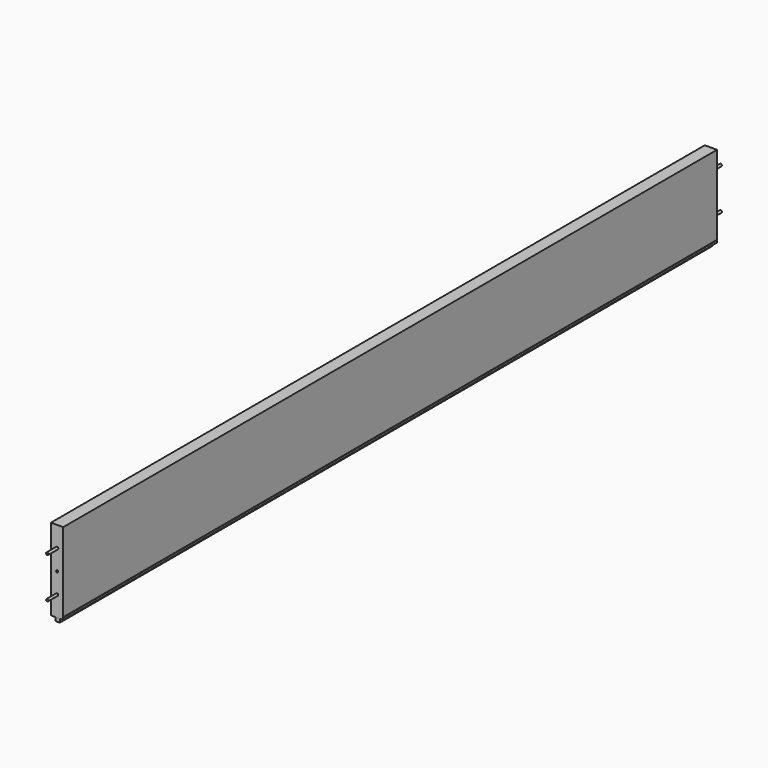
from build123d import *

# Parameters (mm, degrees)
F0_W      = 2000
F0_H      = 200
F1_DEPTH  = 30
F2_R      = 3
F3_DEPTH  = 30
F5_START  = -2
F4_W      = 10
F4_H      = 10
F5_DEPTH  = 1996
F6_R      = 3
F6_R_2    = 2.7931016095
F7_DEPTH  = 30
F8_W      = 10
F8_H      = 1
F9_DEPTH  = 2000
F10_D     = 5.1054
F10_DEPTH = 30
F10_TIP   = 1.5338169022
F11_D     = 5.1054
F11_DEPTH = 30
F11_TIP   = 1.5338169022


with BuildPart() as f1:
    # F0 (on Right) → F1 (new body)
    with BuildSketch(Plane.YZ):
        Rectangle(F0_W, F0_H)
    extrude(amount=F1_DEPTH)

    # F2 (on face) → F3 (join)
    with BuildSketch(Plane(origin=(0, 1000, 0), x_dir=(-1, 0, 0), z_dir=(0, 1, 0))):
        with Locations((-15, -50)):
            Circle(F2_R)
        with Locations((-15, 50)):
            Circle(F2_R)
    extrude(amount=F3_DEPTH)

    # F4 (on face) → F5 (join)
    with BuildSketch(Plane.XZ.offset(1000).offset(F5_START)):
        with Locations((15, -105)):
            Rectangle(F4_W, F4_H)
    extrude(amount=-F5_DEPTH)

    # F6 (on face) → F7 (join)
    with BuildSketch(Plane.XZ.offset(1000)):
        with Locations((15, 50)):
            Circle(F6_R)
        with Locations((15, -50)):
            Circle(F6_R_2)
    extrude(amount=F7_DEPTH)

    # F8 (on face) → F9 (cut)
    with BuildSketch(Plane.XZ.offset(998)):
        with Locations((25, -94.5)):
            Rectangle(F8_W, F8_H)
    extrude(amount=-F9_DEPTH, mode=Mode.SUBTRACT)

    # F10
    with Locations(Plane(origin=(0, 1000, 0), x_dir=(-1, 0, 0), z_dir=(0, 1, 0))):
        with Locations((-15, 0)):
            Hole(F10_D / 2, depth=F10_DEPTH)
            with Locations((0, 0, -(F10_DEPTH + F10_TIP / 2))):  # 118° drill point
                Cone(0, F10_D / 2, F10_TIP, mode=Mode.SUBTRACT)

    # F11
    with Locations(Plane.XZ.offset(1000)):
        with Locations((15, 0)):
            Hole(F11_D / 2, depth=F11_DEPTH)
            with Locations((0, 0, -(F11_DEPTH + F11_TIP / 2))):  # 118° drill point
                Cone(0, F11_D / 2, F11_TIP, mode=Mode.SUBTRACT)


solid = f1.part
